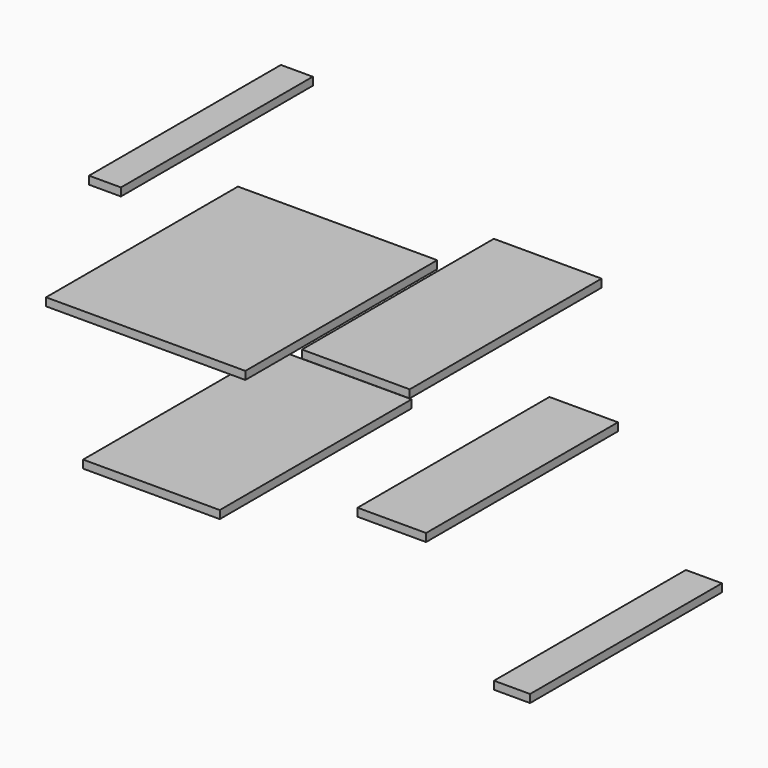
from build123d import *

# Parameters (mm, degrees)
F0_W     = 43.427859
F0_H     = 2.54
F0_W_2   = 63.316487
F0_W_3   = 34.241598
F0_H_2   = 2.539999
F0_W_4   = 11.455841
F0_W_5   = 21.775078
F0_W_6   = 10.127075
F1_DEPTH = 76.2


with BuildPart() as f1:
    # F0 (on Front) → F1 (new body)
    with BuildSketch(Plane.XZ):
        with Locations((-50.818304, -24.45673)):
            Rectangle(F0_W, F0_H)
        with Locations((-52.632926, 17.112397)):
            Rectangle(F0_W_2, F0_H)
        with Locations((14.137105, 28.942631)):
            Rectangle(F0_W_3, F0_H_2)
        with Locations((63.767366, -43.848421)):
            Rectangle(F0_W_4, F0_H)
        with Locations((25.567103, -9.558421)):
            Rectangle(F0_W_5, F0_H)
        with Locations((-65.572105, 55.579208)):
            Rectangle(F0_W_6, F0_H)
    extrude(amount=F1_DEPTH)


solid = f1.part
